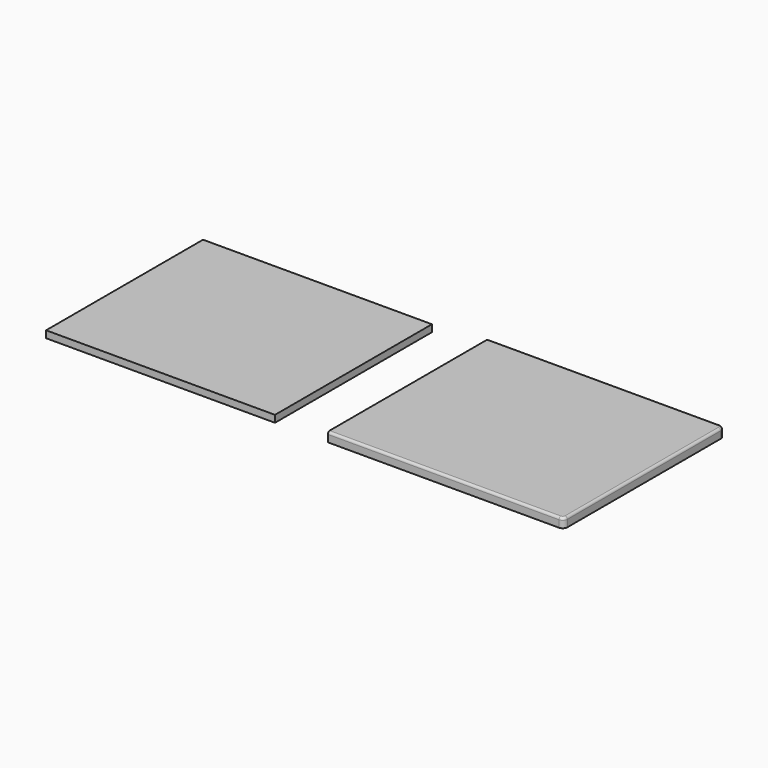
from build123d import *

# Parameters (mm, degrees)
F0_W     = 505
F0_H     = 430
F1_DEPTH = 20
F2_W     = 490
F2_H     = 420
F3_DEPTH = 15
F4_R     = 10
F5_R     = 10
F6_R     = 5


with BuildPart() as f1:
    # F0 (on Top) → F1 (new body)
    with BuildSketch(Plane.XY):
        with Locations((252.5, 215)):
            Rectangle(F0_W, F0_H)
    extrude(amount=F1_DEPTH)

    # F4
    f4_edges = [f1.edges().sort_by_distance(p)[0] for p in [
        (505, 430, 10),
    ]]
    fillet(f4_edges, radius=F4_R)

    # F5
    f5_edges = [f1.edges().sort_by_distance(p)[0] for p in [
        (505, 0, 10),
    ]]
    fillet(f5_edges, radius=F5_R)

    # F6
    f6_edges = [f1.edges().sort_by_distance(p)[0] for p in [
        (247.5, 0, 20),
    ]]
    fillet(f6_edges, radius=F6_R)


with BuildPart() as f3:
    # F2 (on Top) → F3 (new body)
    with BuildSketch(Plane.XY):
        with Locations((-357.980487, 210)):
            Rectangle(F2_W, F2_H)
    extrude(amount=F3_DEPTH)


solid = Compound([f1.part, f3.part])
